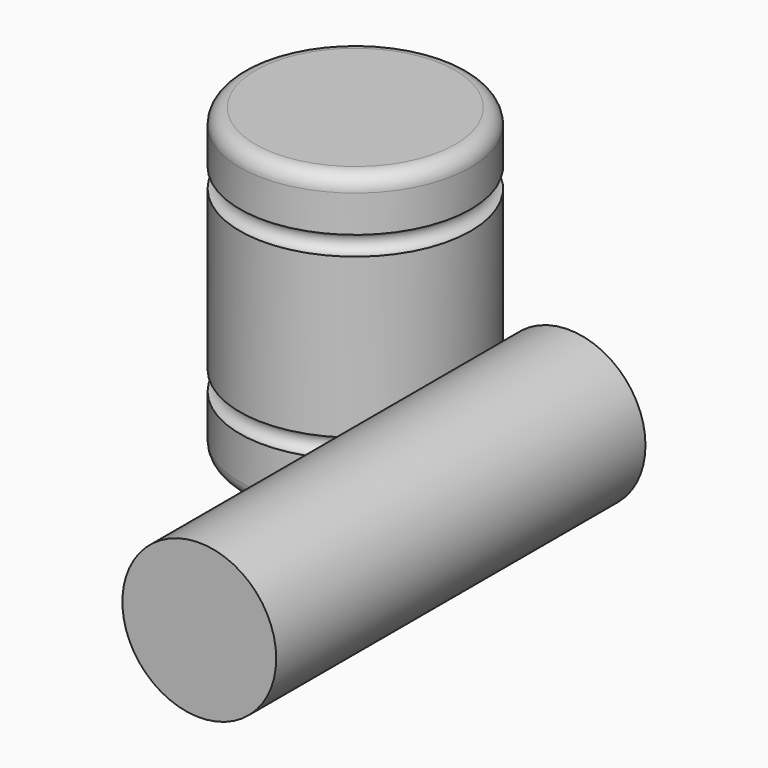
from build123d import *

# Parameters (mm, degrees)
F2_R     = 5.08
F3_R     = 25.4
F4_DEPTH = 152.4


with BuildPart() as f1:
    # F0 (on Front) → F1 (revolve)
    with BuildSketch(Plane.XZ):
        with BuildLine():
            Line((-38.1, 0), (0, 0))
            Line((0, 0), (0, 19.0920137882))
            ThreePointArc((0, 19.0920137882), (-3.175, 22.2670137882), (0, 25.4420137882))
            Line((0, 25.4420137882), (0, 78.0360230327))
            ThreePointArc((0, 78.0360230327), (-3.175, 81.2110230327), (0, 84.3860230327))
            Line((0, 84.3860230327), (0, 101.6))
            Line((0, 101.6), (-38.1, 101.6))
            Line((-38.1, 101.6), (-38.1, 0))
        make_face()
    revolve(axis=Axis((-38.1, 0, 50.8), (0, 0, 1)))

    # F2
    f2_edges = [f1.edges().sort_by_distance(p)[0] for p in [
        (-76.2, 0, 101.6),
        (-76.2, 0, 0),
    ]]
    fillet(f2_edges, radius=F2_R)


with BuildPart() as f4:
    # F3 (on Front) → F4 (new body)
    with BuildSketch(Plane.XZ):
        with Locations((32.3031619191, 34.5324799418)):
            Circle(F3_R)
    extrude(amount=F4_DEPTH)


solid = Compound([f1.part, f4.part])
